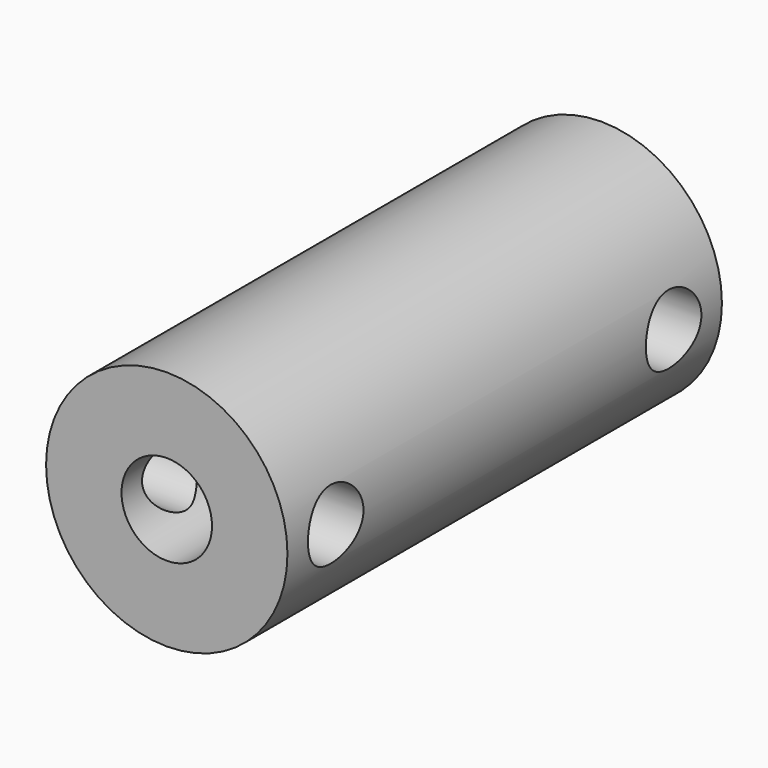
from build123d import *

# Parameters (mm, degrees)
F0_R          = 4
F1_DEPTH      = 18
F2_R          = 1.15
F3_DEPTH      = 4.001
F3_DEPTH_BACK = 4.001
F4_R          = 1.585
F5_DEPTH      = 7
F7_R          = 1.5
F8_DEPTH      = 7


with BuildPart() as f1:
    # F0 (on Front) → F1 (new body)
    with BuildSketch(Plane.XZ):
        Circle(F0_R)
    extrude(amount=F1_DEPTH)

    # F2 (on Right) → F3 (cut, two sides)
    with BuildSketch(Plane.YZ) as f3_sk:
        with Locations((-16, 0)):
            Circle(F2_R)
        with Locations((-2, 0)):
            Circle(F2_R)
    extrude(amount=-F3_DEPTH, mode=Mode.SUBTRACT)
    extrude(f3_sk.sketch, amount=F3_DEPTH_BACK, mode=Mode.SUBTRACT)

    # F4 (on Front) → F5 (cut)
    with BuildSketch(Plane.XZ):
        Circle(F4_R)
    extrude(amount=F5_DEPTH, mode=Mode.SUBTRACT)

    # F7 (on offset) → F8 (cut)
    with BuildSketch(Plane.XZ.offset(18)):
        Circle(F7_R)
    extrude(amount=-F8_DEPTH, mode=Mode.SUBTRACT)


solid = f1.part
